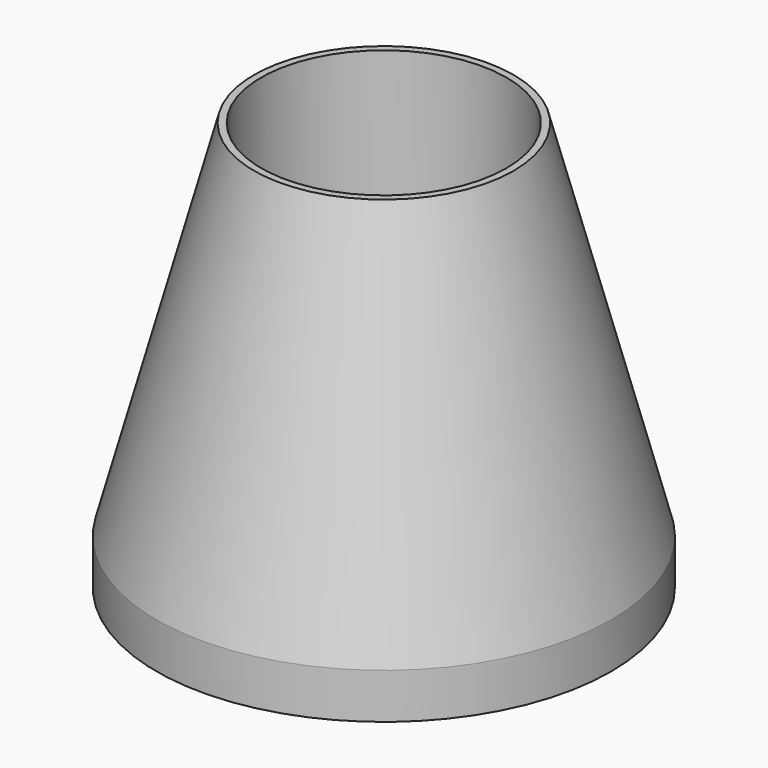
from build123d import *

# Parameters (mm, degrees)
F0_R      = 15.875
F1_DEPTH  = 3.175
F1_FACE_R = 15.875
F2_DEPTH  = 25.4
F2_TAPER  = 15
F3_R      = 8.5725
F4_DEPTH  = 25.4


with BuildPart() as f1:
    # F0 (on Top) → F1 (new body)
    with BuildSketch(Plane.XY):
        Circle(F0_R)
    extrude(amount=F1_DEPTH)

    # F1_face (on face) → F2 (join)
    with BuildSketch(Plane.XY.offset(3.175)):
        Circle(F1_FACE_R)
    extrude(amount=F2_DEPTH, taper=F2_TAPER)

    # F3 (on face) → F4 (cut)
    with BuildSketch(Plane.XY.offset(28.575)):
        Circle(F3_R)
    extrude(amount=-F4_DEPTH, mode=Mode.SUBTRACT)


solid = f1.part
